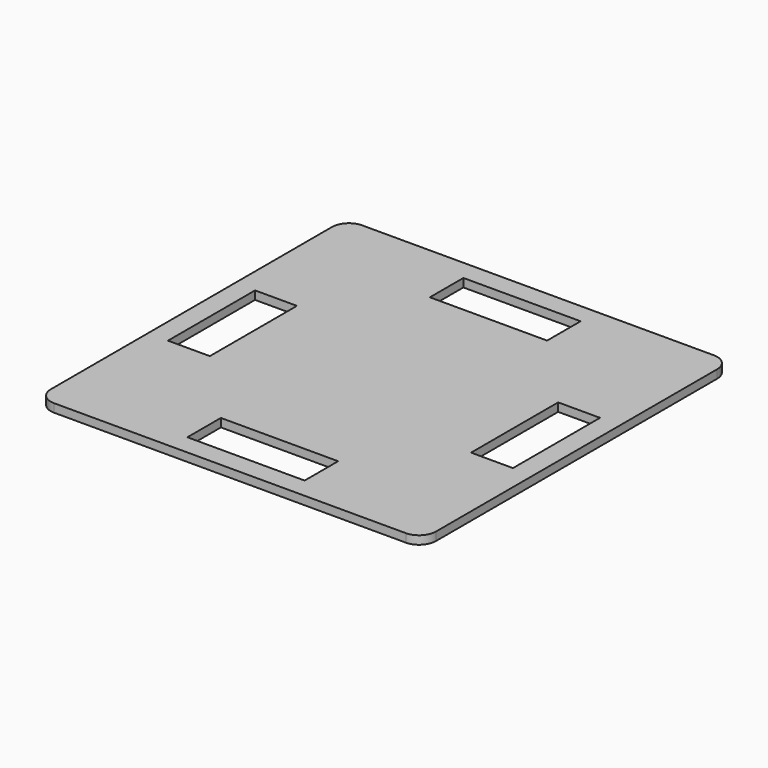
from build123d import *

# Parameters (mm, degrees)
F0_W     = 31.75
F0_H     = 82.55
F0_W_2   = 88.9
F0_H_2   = 31.75
F1_DEPTH = 6.35


with BuildPart() as f1:
    # F0 (on Top) → F1 (new body)
    with BuildSketch(Plane.XY):
        with BuildLine():
            ThreePointArc((-146.05, -124.442522), (-142.330256, -133.422778), (-133.35, -137.142522))
            Line((-133.35, -137.142522), (133.35, -137.142522))
            ThreePointArc((133.35, -137.142522), (142.330256, -133.422778), (146.05, -124.442522))
            Line((146.05, -124.442522), (146.05, 142.257478))
            ThreePointArc((146.05, 142.257478), (142.330256, 151.237734), (133.35, 154.957478))
            Line((133.35, 154.957478), (-133.35, 154.957478))
            ThreePointArc((-133.35, 154.957478), (-142.330256, 151.237734), (-146.05, 142.257478))
            Line((-146.05, 142.257478), (-146.05, -124.442522))
        make_face()
        with Locations((-114.935, 8.907478)):
            Rectangle(F0_W, F0_H, mode=Mode.SUBTRACT)
        with Locations((0, -106.027522)):
            Rectangle(F0_W_2, F0_H_2, mode=Mode.SUBTRACT)
        with Locations((114.935, 8.907478)):
            Rectangle(F0_W, F0_H, mode=Mode.SUBTRACT)
        with Locations((0, 123.842478)):
            Rectangle(F0_W_2, F0_H_2, mode=Mode.SUBTRACT)
    extrude(amount=F1_DEPTH)


solid = f1.part
